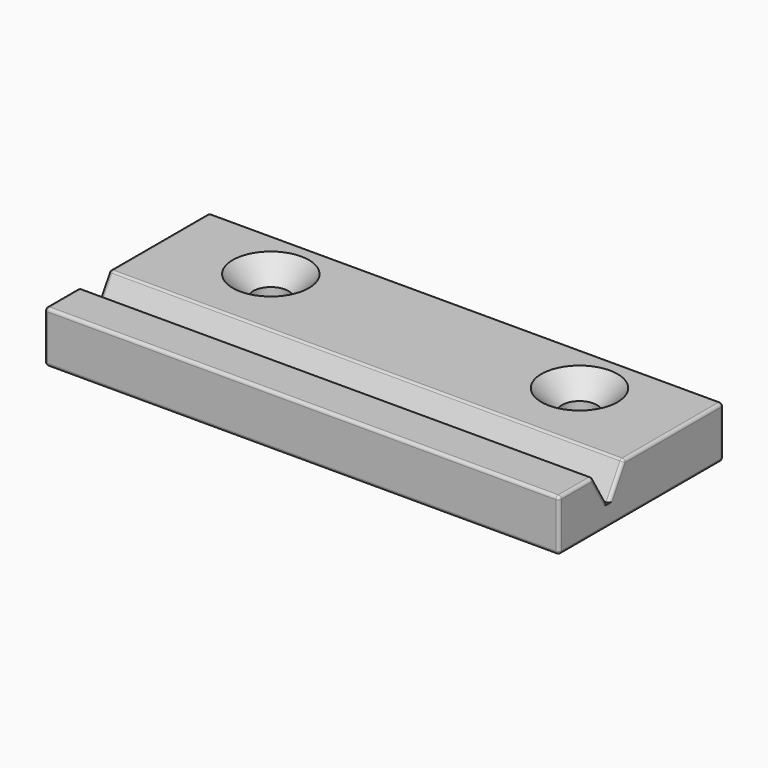
from build123d import *

# Parameters (mm, degrees)
CYLINDER_R        = 1.7
CYLINDER_DEPTH    = 10
CYLINDER001_R     = 1.7
CYLINDER001_DEPTH = 10
BOX_W             = 50
BOX_H             = 6
BOX_DEPTH         = 5
CHAMFER_1_SIZE2   = 2.9
CHAMFER_1_SIZE    = 4.9
CHAMFER_2_SIZE2   = 2.9
CHAMFER_2_SIZE    = 4.9
BOX001_W          = 50
BOX001_H          = 20
BOX001_DEPTH      = 5
CHAMFER001_SIZE   = 2
FILLET_R          = 0.3


with BuildPart() as cylinder:
    # Cylinder → Cylinder (new body)
    with BuildSketch(Plane(origin=(10, 15, 0), x_dir=(1, 0, 0), z_dir=(0, 0, 1))):
        Circle(CYLINDER_R)
    extrude(amount=CYLINDER_DEPTH)


with BuildPart() as cylinder001:
    # Cylinder001 → Cylinder001 (new body)
    with BuildSketch(Plane(origin=(40, 15, 0), x_dir=(1, 0, 0), z_dir=(0, 0, 1))):
        Circle(CYLINDER001_R)
    extrude(amount=CYLINDER001_DEPTH)


with BuildPart() as chamfer_body:
    # Box → Box (new body)
    with BuildSketch(Plane.XY.offset(2)):
        with Locations((25, 3)):
            Rectangle(BOX_W, BOX_H)
    extrude(amount=BOX_DEPTH)

    # Chamfer 1
    chamfer_1_edges = [chamfer_body.edges().sort_by_distance(p)[0] for p in [
        (25, 6, 2),
    ]]
    chamfer_1_side = chamfer_body.faces().sort_by_distance((25, 6, 4.5))[0]
    chamfer(chamfer_1_edges, length=CHAMFER_1_SIZE, length2=CHAMFER_1_SIZE2, reference=chamfer_1_side)

    # Chamfer 2
    chamfer_2_edges = [chamfer_body.edges().sort_by_distance(p)[0] for p in [
        (25, 0, 2),
    ]]
    chamfer_2_side = chamfer_body.faces().sort_by_distance((25, 0, 4.5))[0]
    chamfer(chamfer_2_edges, length=CHAMFER_2_SIZE, length2=CHAMFER_2_SIZE2, reference=chamfer_2_side)


with BuildPart() as chamfer_body_1:
    # Chamfer placement: moved
    add(chamfer_body.part.moved(Location((0, 3, 0))))


with BuildPart() as fillet_body:
    # Box001 → Box001 (new body)
    with BuildSketch(Plane.XY):
        with Locations((25, 10)):
            Rectangle(BOX001_W, BOX001_H)
    extrude(amount=BOX001_DEPTH)

    # Cut: cut Chamfer body
    add(chamfer_body_1.part, mode=Mode.SUBTRACT)

    # Cut001: cut Cylinder001
    add(cylinder001.part, mode=Mode.SUBTRACT)

    # Cut002: cut Cylinder
    add(cylinder.part, mode=Mode.SUBTRACT)

    # Chamfer001
    chamfer001_edges = [fillet_body.edges().sort_by_distance(p)[0] for p in [
        (8.3, 15, 5),
        (38.3, 15, 5),
    ]]
    chamfer(chamfer001_edges, length=CHAMFER001_SIZE)

    # Fillet
    fillet_edges = [fillet_body.edges().sort_by_distance(p)[0] for p in [
        (0, 13.937755, 5),
        (25, 7.87551, 5),
        (50, 13.937755, 5),
        (25, 20, 5),
        (0, 2.062245, 5),
        (0, 5.012245, 3.5),
        (0, 6.987755, 3.5),
        (0, 20, 2.5),
        (0, 10, 0),
        (0, 0, 2.5),
        (50, 6.987755, 3.5),
        (25, 20, 0),
        (50, 20, 2.5),
        (50, 2.062245, 5),
        (50, 5.012245, 3.5),
        (50, 10, 0),
        (50, 0, 2.5),
        (8.3, 15, 0),
        (25, 4.12449, 5),
        (25, 0, 5),
        (25, 0, 0),
        (38.3, 15, 0),
    ]]
    fillet(fillet_edges, radius=FILLET_R)


solid = fillet_body.part
